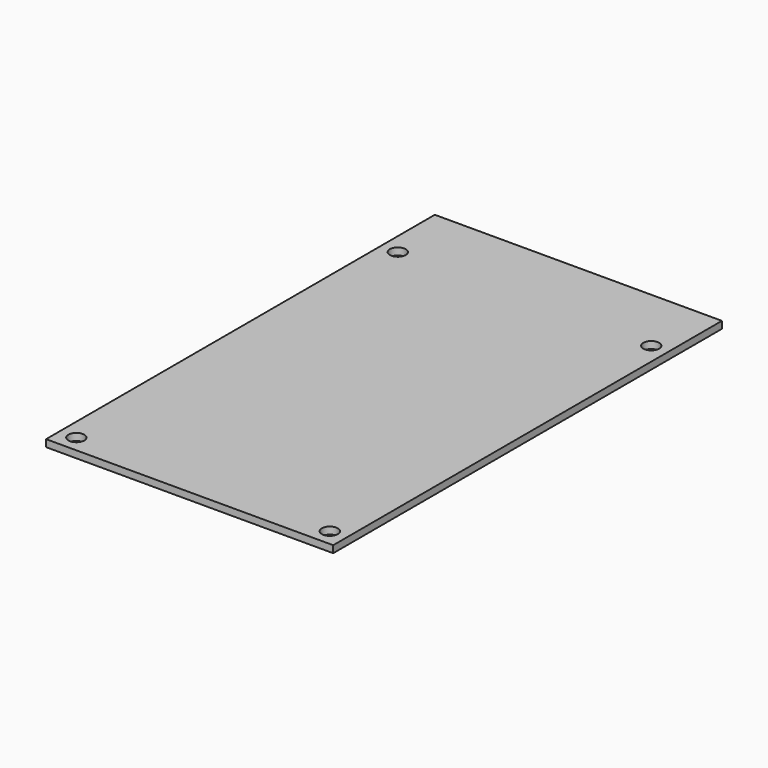
from build123d import *

# Parameters (mm, degrees)
F0_W     = 65
F0_H     = 110
F1_DEPTH = 1.6
F2_D     = 3.6


with BuildPart() as f1:
    # F0 (on Top) → F1 (new body)
    with BuildSketch(Plane.XY):
        with Locations((32.5, 55)):
            Rectangle(F0_W, F0_H)
    extrude(amount=F1_DEPTH)

    # F2 (through all)
    with Locations(Plane(origin=(0, 0, 0), x_dir=(1, 0, 0), z_dir=(0, 0, -1))):
        with Locations((3.81, -94.76), (61.19, -94.76), (3.81, -3.81), (61.19, -3.81)):
            Hole(F2_D / 2)


solid = f1.part
